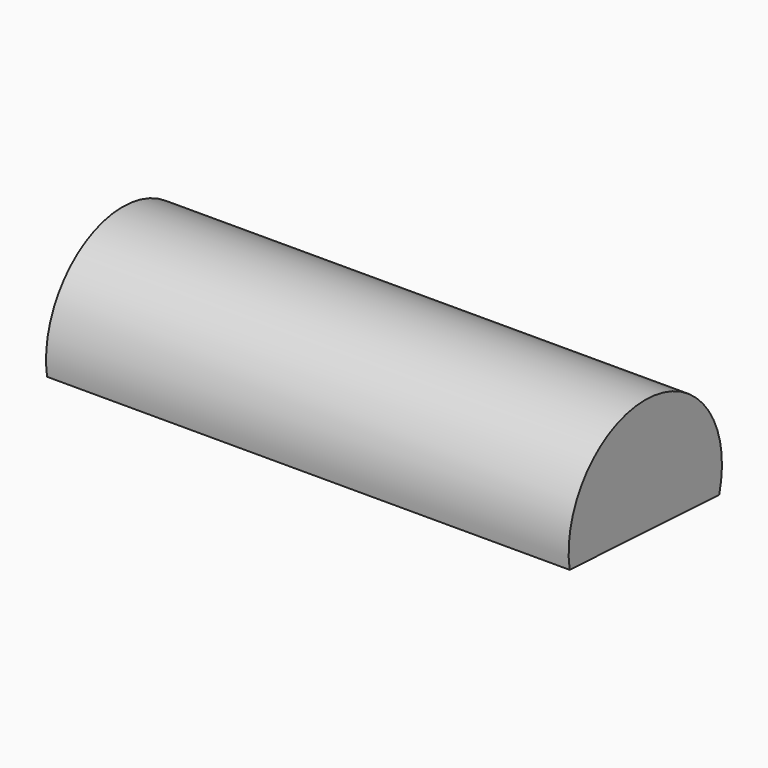
from build123d import *

# Parameters (mm, degrees)
F1_DEPTH = 190.5


with BuildPart() as f1:
    # F0 (on Right) → F1 (new body)
    with BuildSketch(Plane.YZ):
        with BuildLine():
            Line((-53.96392, 3.620657), (14.182824, 0))
            ThreePointArc((14.182824, 0), (-17.64239, 44.124382), (-53.96392, 3.620657))
        make_face()
    extrude(amount=F1_DEPTH)


solid = f1.part
